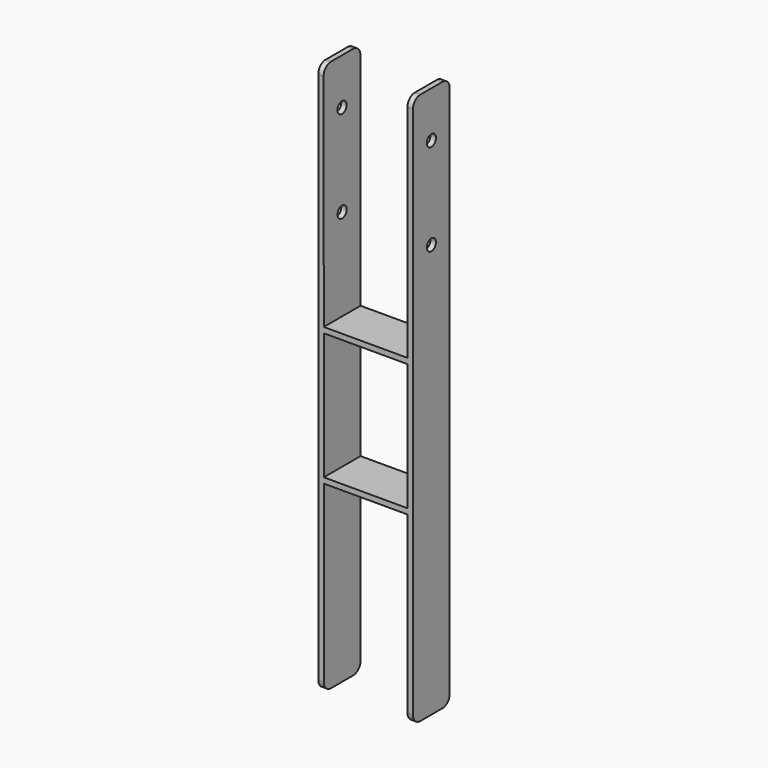
from build123d import *

# Parameters (mm, degrees)
F0_W     = 91
F0_H     = 138
F1_DEPTH = 25
F2_R     = 10
F3_R     = 6.25
F4_DEPTH = 103.001


with BuildPart() as f1:
    # F0 (on Front) → F1 (new body, symmetric)
    with BuildSketch(Plane.XZ):
        Polygon((45.5, 0), (-45.5, 0), (-45.6963069737, 250), (-51.5, 250), (-51.5, -350), (-45.5, -350), (-45.5, -150), (45.5, -150), (45.5, -350), (51.5, -350), (51.5, 250), (45.5, 250), align=None)
        with Locations((0, -75)):
            Rectangle(F0_W, F0_H, mode=Mode.SUBTRACT)
    extrude(amount=F1_DEPTH, both=True)

    # F2
    f2_edges = [f1.edges().sort_by_distance(p)[0] for p in [
        (48.5, -25, 250),
        (48.5, 25, 250),
        (-48.598153, -25, 250),
        (-48.598153, 25, 250),
        (48.5, -25, -350),
        (-48.5, -25, -350),
        (48.5, 25, -350),
        (-48.5, 25, -350),
    ]]
    fillet(f2_edges, radius=F2_R)

    # F3 (on face) → F4 (cut, through all)
    with BuildSketch(Plane.YZ.offset(51.5)):
        with Locations((0, 200)):
            Circle(F3_R)
        with Locations((0, 100)):
            Circle(F3_R)
    extrude(amount=-F4_DEPTH, mode=Mode.SUBTRACT)


solid = f1.part
